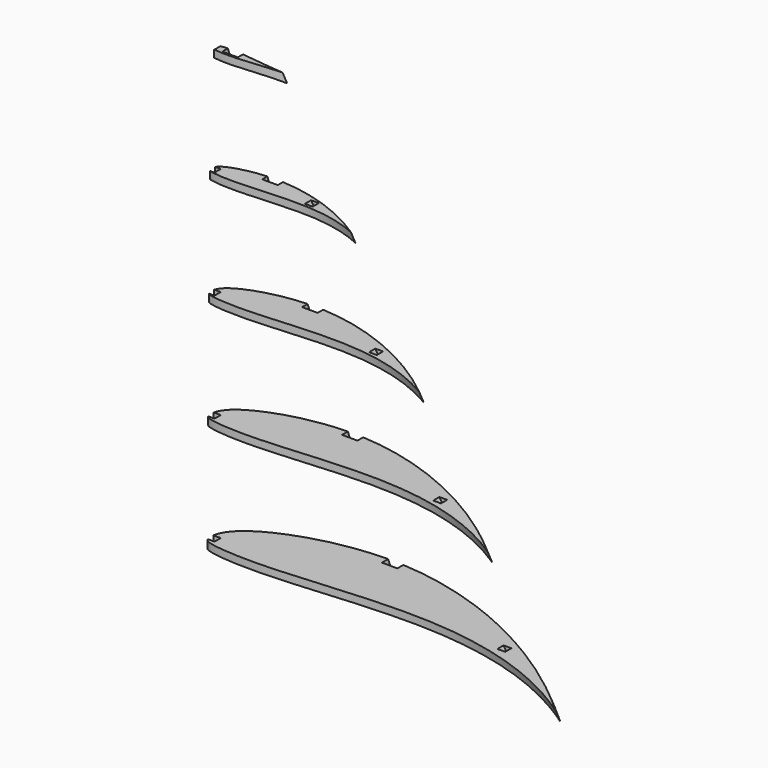
from build123d import *

# Parameters (mm, degrees)
F6_W          = 207.0867717266
F6_H          = 41.25
F7_DEPTH      = 50
F7_DEPTH_BACK = 50
F9_DEPTH      = 200
F15_W         = 3.175
F15_H         = 3.175
F16_W         = 3.175
F16_H         = 3.175


with BuildPart() as f5:
    # F3 (on Top) → F5 section 0
    with BuildSketch(Plane.XY):
        with BuildLine():
            add(Edge.make_bspline(
                [(0, 0), (0.0145502208, 0.3976086902), (0.0522260355, 1.4023274685), (0.872608289, 4.8266320676), (8.0594876424, 14.5082972206), (64.9982999871, 34.9782523131), (129.8929601908, 5.4440279491), (163.601369, -25.411966)],
                knots=[0, 0, 0, 0, 0.0474528071, 0.119608752, 0.2503206101, 0.5501657209, 1, 1, 1, 1], degree=3))
            add(Edge.make_bspline(
                [(0, 0), (0.1404008044, -0.5861284105), (0.4259986033, -1.7745036206), (2.077008885, -4.0355941485), (29.8046992444, -6.4819673656), (93.4877128862, 3.2336914876), (140.5304521322, -9.2550506815), (163.601369, -25.411966)],
                knots=[0, 0, 0, 0, 0.0540236107, 0.1097629156, 0.3088386897, 0.6418086217, 1, 1, 1, 1], degree=3))
        make_face()
    # F4 (on offset) → F5 section 1
    with BuildSketch(Plane.XY.offset(180)):
        with BuildLine():
            add(Edge.make_bspline(
                [(0, 0), (0.2741284508, 0.3243054938), (0.7938579789, 0.9391673982), (1.8043640627, 1.4308815727), (8.7668130707, 2.1979084448), (21.4038812625, 0.3330653954), (27.3505871278, -0.1650966365), (29.99808, -0.38688)],
                knots=[0, 0, 0, 0, 0.0969994743, 0.1839046289, 0.4112189749, 0.7378727648, 1, 1, 1, 1], degree=3))
            add(Edge.make_bspline(
                [(0, 0), (0.2624862993, -0.32146844), (0.7649026374, -0.9367805415), (1.7755106953, -1.481931278), (8.7048020982, -2.434078484), (21.4095300923, -0.9496785855), (27.3536651803, -0.5601657043), (29.99808, -0.38688)],
                knots=[0, 0, 0, 0, 0.0961660566, 0.1840682662, 0.4113428017, 0.7381193738, 1, 1, 1, 1], degree=3))
        make_face()
    loft()

    # F6 (on Front) → F7 (cut, two sides)
    with BuildSketch(Plane.XZ) as f7_sk:
        with Locations((103.5433858633, 23.625)):
            Rectangle(F6_W, F6_H)
        with Locations((103.5433858633, 67.875)):
            Rectangle(F6_W, F6_H)
        with Locations((103.5433858633, 112.125)):
            Rectangle(F6_W, F6_H)
        with Locations((103.5433858633, 156.375)):
            Rectangle(F6_W, F6_H)
    extrude(amount=-F7_DEPTH, mode=Mode.SUBTRACT)
    extrude(f7_sk.sketch, amount=F7_DEPTH_BACK, mode=Mode.SUBTRACT)

    # F8 (on Top) → F9 (cut)
    with BuildSketch(Plane.XY):
        Polygon((3.175, -1.5875), (3.175, 0), (3.175, 1.5875), (0, 1.5875), (0, -1.5875), align=None)
    extrude(amount=F9_DEPTH, mode=Mode.SUBTRACT)

    # F14: sweep along a path in F13
    with BuildLine(Plane(origin=(51.0044383131, 0, 13.8178528968), x_dir=(0, -1, 0), z_dir=(-0.9652065488, 0, -0.2614886576))) as f14_path:
        Line((1.1090089131, 172.1726269902), (-20.802793, -14.3159543554))
    # F10 (on face) → F14 (sweep, cut)
    with BuildSketch(Plane.XY):
        Polygon((54.747898, 20.802793), (57.922898, 20.802793), (61.097898, 20.802793), (61.097898, 23.977793), (61.097898, 25.4188962281), (54.747898, 25.4188962281), (54.747898, 23.977793), align=None)
    sweep(path=f14_path.line, mode=Mode.SUBTRACT)

    # F15 (on face) → F17 section 0
    with BuildSketch(Plane.XY):
        with Locations((123.4033602715, -1.5874999616)):
            Rectangle(F15_W, F15_H)
    # F16 (on face) → F17 section 1
    with BuildSketch(Plane.XY.offset(135.75)):
        with Locations((40.7369520009, 1.1874999519)):
            Rectangle(F16_W, F16_H)
    loft(mode=Mode.SUBTRACT)


solid = f5.part
